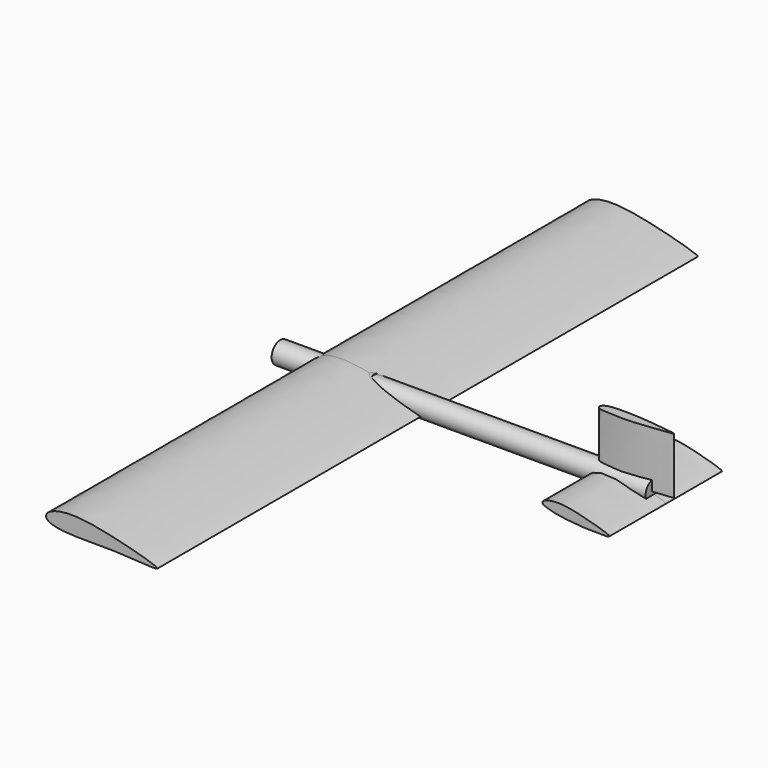
from build123d import *

# Parameters (mm, degrees)
F1_DEPTH  = 304.8
F4_DEPTH  = 63.5
F6_DEPTH  = 50.8
F7_R      = 9.4858112155
F8_DEPTH  = 252.73
F9_R      = 9.8120589624
F10_DEPTH = 84.582


with BuildPart() as f1:
    # F0 (on Front) → F1 (new body)
    with BuildSketch(Plane.XZ):
        with BuildLine():
            add(Edge.make_bspline(
                [(48.3626313508, -4.5874887146), (48.2133641017, -2.6909809806), (0.2297958572, 10.3563636314), (-34.4211024532, 14.7339270125), (-52.1001635868, 8.4037047715), (-52.7039494645, 0.5941357233), (-32.7857277862, -4.5955614124), (7.6012136458, -1.869367445), (48.4944040093, -6.2617197835), (48.3626313508, -4.5874887146)],
                knots=[0, 0, 0, 0, 0.1858701495, 0.3658172735, 0.4726039919, 0.5310575516, 0.6421754333, 0.835914416, 1, 1, 1, 1], degree=3))
        make_face()
    extrude(amount=F1_DEPTH)

    # F2: F1 across face


with BuildPart() as f1_1:
    add(f1.part)
    add(f1.part.mirror(Plane(origin=(-10.2988835712, 0, 3.0662665681), x_dir=(1, 0, 0), z_dir=(0, 1, 0))))


with BuildPart() as f4:
    # F3 (on Front) → F4 (new body, symmetric)
    with BuildSketch(Plane.XZ):
        with BuildLine():
            add(Edge.make_bspline(
                [(263.193666935, -7.3122307658), (263.5689191728, -5.9134595093), (238.1297702954, 1.1611506631), (215.1417433112, 6.1821019178), (196.6503063028, -0.4528627304), (218.905749468, -6.6420883623), (238.4733150868, -7.7552603443), (239.4477107876, -7.8079409647), (248.4615352892, -8.2559070835), (262.8980023713, -8.4143350347), (263.193666935, -7.3122307658)],
                knots=[0, 0, 0, 0, 0.1605422583, 0.3426998887, 0.450804839, 0.5884441856, 0.7391178663, 0.7696312396, 0.873507332, 1, 1, 1, 1], degree=3))
        make_face()
    extrude(amount=F4_DEPTH, both=True)

    # F5 (on Top) → F6 (join)
    with BuildSketch(Plane.XY):
        with BuildLine():
            add(Edge.make_bspline(
                [(270.7759141922, 0), (270.741078932, 0.6722254106), (256.1533123935, 2.6930213805), (243.6975087564, 4.0646901094), (226.2818613827, 5.0643336143), (212.7006068508, 4.8108562911), (206.2911475931, 3.795672701), (202.2861991906, 0.0254757891), (206.0071548501, -3.5380699159), (213.4108764017, -3.662756483), (227.4149182836, -4.6975620357), (244.2002236286, -3.6733935782), (257.3331307519, -1.4535693987), (270.8089101237, -0.6367313894), (270.7759141922, 0)],
                knots=[0, 0, 0, 0, 0.089817952, 0.188221338, 0.292927783, 0.3861243019, 0.4499603528, 0.5009052846, 0.5487400373, 0.6164044249, 0.7116354366, 0.8145258013, 0.9149245053, 1, 1, 1, 1], degree=3))
        make_face()
    extrude(amount=F6_DEPTH)


with BuildPart() as f8:
    # F7 (on Right) → F8 (new body)
    with BuildSketch(Plane.YZ):
        Circle(F7_R)
    extrude(amount=F8_DEPTH)


with BuildPart() as f10:
    # F9 (on Right) → F10 (new body)
    with BuildSketch(Plane.YZ):
        Circle(F9_R)
    extrude(amount=-F10_DEPTH)


solid = Compound([f1_1.part, f4.part, f8.part, f10.part])
